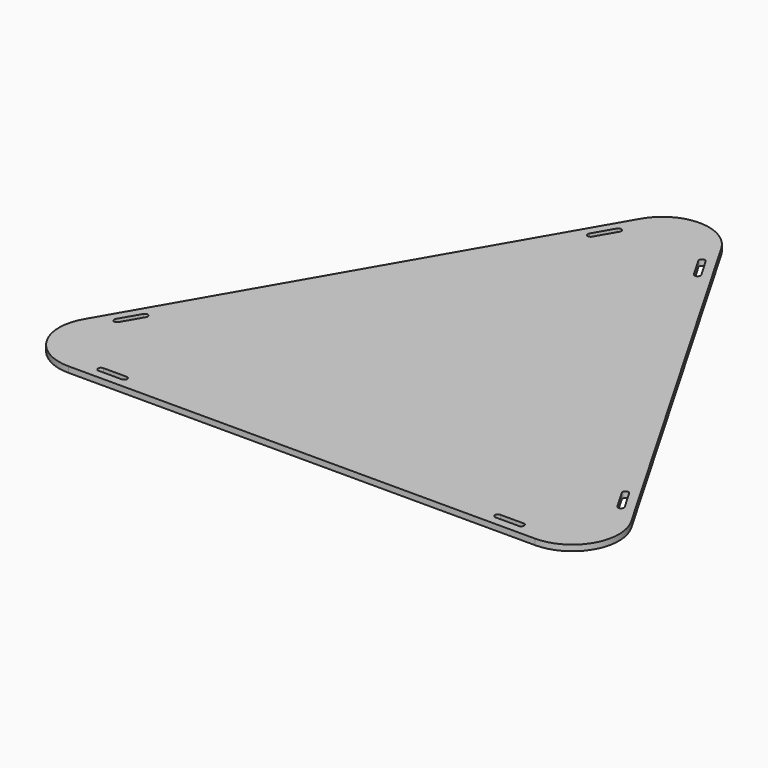
from build123d import *

# Parameters (mm, degrees)
F1_DEPTH = 3.175


with BuildPart() as f1:
    # F0 (on Top) → F1 (new body)
    with BuildSketch(Plane.XY):
        with BuildLine():
            ThreePointArc((-149.452955, 38.1), (-149.452955, 12.7), (-127.455909, 0))
            Line((-127.455909, 0), (127.455909, 0))
            ThreePointArc((127.455909, 0), (149.452955, 12.7), (149.452955, 38.1))
            Line((149.452955, 38.1), (21.997045, 258.860111))
            ThreePointArc((21.997045, 258.860111), (0, 271.560111), (-21.997045, 258.860111))
            Line((-21.997045, 258.860111), (-149.452955, 38.1))
        make_face()
        with BuildLine():
            ThreePointArc((-114.755909, 4.7625), (-116.343409, 6.35), (-114.755909, 7.9375))
            Line((-114.755909, 7.9375), (-102.055909, 7.9375))
            ThreePointArc((-102.055909, 7.9375), (-100.468409, 6.35), (-102.055909, 4.7625))
            Line((-102.055909, 4.7625), (-114.755909, 4.7625))
        make_face(mode=Mode.SUBTRACT)
        with BuildLine():
            ThreePointArc((-136.228878, 45.129773), (-138.397443, 44.548707), (-138.978509, 46.717273))
            Line((-138.978509, 46.717273), (-132.628509, 57.715795))
            ThreePointArc((-132.628509, 57.715795), (-130.459943, 58.296861), (-129.878878, 56.128295))
            Line((-129.878878, 56.128295), (-136.228878, 45.129773))
        make_face(mode=Mode.SUBTRACT)
        with BuildLine():
            ThreePointArc((114.755909, 7.9375), (116.343409, 6.35), (114.755909, 4.7625))
            Line((114.755909, 4.7625), (102.055909, 4.7625))
            ThreePointArc((102.055909, 4.7625), (100.468409, 6.35), (102.055909, 7.9375))
            Line((102.055909, 7.9375), (114.755909, 7.9375))
        make_face(mode=Mode.SUBTRACT)
        with BuildLine():
            ThreePointArc((129.878878, 56.128295), (130.459943, 58.296861), (132.628509, 57.715795))
            Line((132.628509, 57.715795), (138.978509, 46.717273))
            ThreePointArc((138.978509, 46.717273), (138.397443, 44.548707), (136.228878, 45.129773))
            Line((136.228878, 45.129773), (129.878878, 56.128295))
        make_face(mode=Mode.SUBTRACT)
        with BuildLine():
            ThreePointArc((-24.222599, 245.480338), (-22.054034, 246.061404), (-21.472969, 243.892838))
            Line((-21.472969, 243.892838), (-27.822969, 232.894316))
            ThreePointArc((-27.822969, 232.894316), (-29.991534, 232.31325), (-30.572599, 234.481816))
            Line((-30.572599, 234.481816), (-24.222599, 245.480338))
        make_face(mode=Mode.SUBTRACT)
        with BuildLine():
            ThreePointArc((21.472969, 243.892838), (22.054034, 246.061404), (24.222599, 245.480338))
            Line((24.222599, 245.480338), (30.572599, 234.481816))
            ThreePointArc((30.572599, 234.481816), (29.991534, 232.31325), (27.822969, 232.894316))
            Line((27.822969, 232.894316), (21.472969, 243.892838))
        make_face(mode=Mode.SUBTRACT)
    extrude(amount=F1_DEPTH)


solid = f1.part
